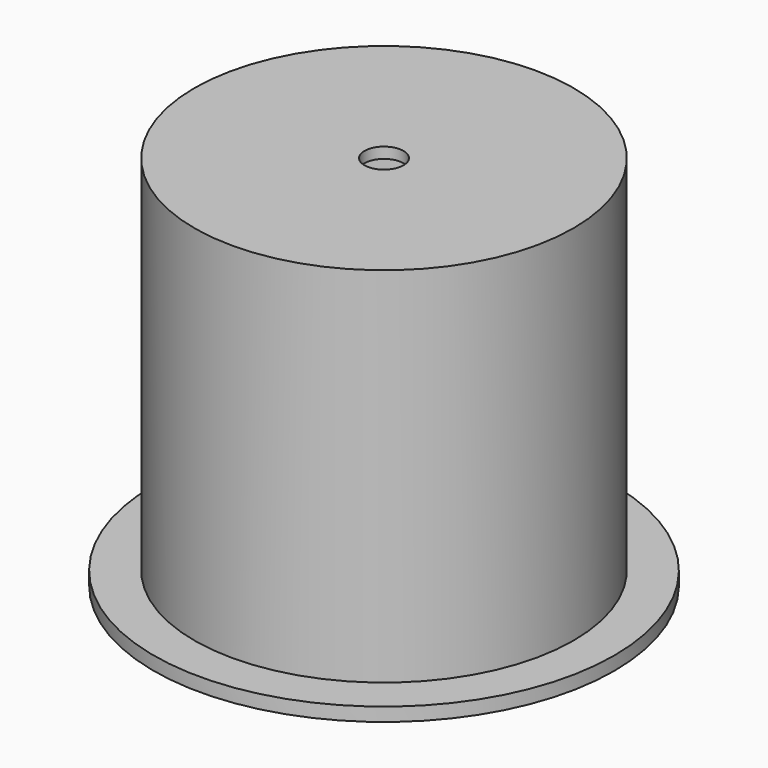
from build123d import *

# Parameters (mm, degrees)
F0_R       = 53.975
F1_DEPTH   = 3.175
F2_R       = 44.45
F3_DEPTH   = 63.5
F4_R       = 44.45
F5_DEPTH   = 19.05
F7_D       = 82.55
F7_DEPTH   = 62.23
F7_TIP     = 24.8005220504
F7_2_D     = 82.55
F7_2_DEPTH = 62.23
F7_2_TIP   = 24.8005220504
F9_D       = 60.96
F9_DEPTH   = 17.78
F9_TIP     = 18.314231668
F10_R      = 44.45
F11_DEPTH  = 2.54
F13_D      = 9.144
F13_DEPTH  = 17.78
F13_TIP    = 2.7471347502


with BuildPart() as f1:
    # F0 (on Top) → F1 (new body)
    with BuildSketch(Plane.XY):
        Circle(F0_R)
    extrude(amount=F1_DEPTH)

    # F7
    with Locations(Plane(origin=(0, 0, 0), x_dir=(1, 0, 0), z_dir=(0, 0, -1))):
        with Locations((0, 0)):
            Hole(F7_D / 2, depth=F7_DEPTH)
            with Locations((0, 0, -(F7_DEPTH + F7_TIP / 2))):  # 118° drill point
                Cone(0, F7_D / 2, F7_TIP, mode=Mode.SUBTRACT)


with BuildPart() as f3:
    # F2 (on face) → F3 (new body)
    with BuildSketch(Plane.XY.offset(3.175)):
        Circle(F2_R)
    extrude(amount=F3_DEPTH)

    # F4 (on face) → F5 (join)
    with BuildSketch(Plane.XY.offset(66.675)):
        Circle(F4_R)
    extrude(amount=F5_DEPTH)

    # F7#2
    with Locations(Plane(origin=(0, 0, 0), x_dir=(1, 0, 0), z_dir=(0, 0, -1))):
        with Locations((0, 0)):
            Hole(F7_2_D / 2, depth=F7_2_DEPTH)
            with Locations((0, 0, -(F7_2_DEPTH + F7_2_TIP / 2))):  # 118° drill point
                Cone(0, F7_2_D / 2, F7_2_TIP, mode=Mode.SUBTRACT)

    # F9
    with Locations(Plane.XY.offset(85.725)):
        with Locations((0, 0)):
            Hole(F9_D / 2, depth=F9_DEPTH)
            with Locations((0, 0, -(F9_DEPTH + F9_TIP / 2))):  # 118° drill point
                Cone(0, F9_D / 2, F9_TIP, mode=Mode.SUBTRACT)

    # F10 (on face) → F11 (join)
    with BuildSketch(Plane.XY.offset(85.725)):
        Circle(F10_R)
    extrude(amount=F11_DEPTH)

    # F13
    with Locations(Plane.XY.offset(88.265)):
        with Locations((0, 0)):
            Hole(F13_D / 2, depth=F13_DEPTH)
            with Locations((0, 0, -(F13_DEPTH + F13_TIP / 2))):  # 118° drill point
                Cone(0, F13_D / 2, F13_TIP, mode=Mode.SUBTRACT)


solid = Compound([f1.part, f3.part])
